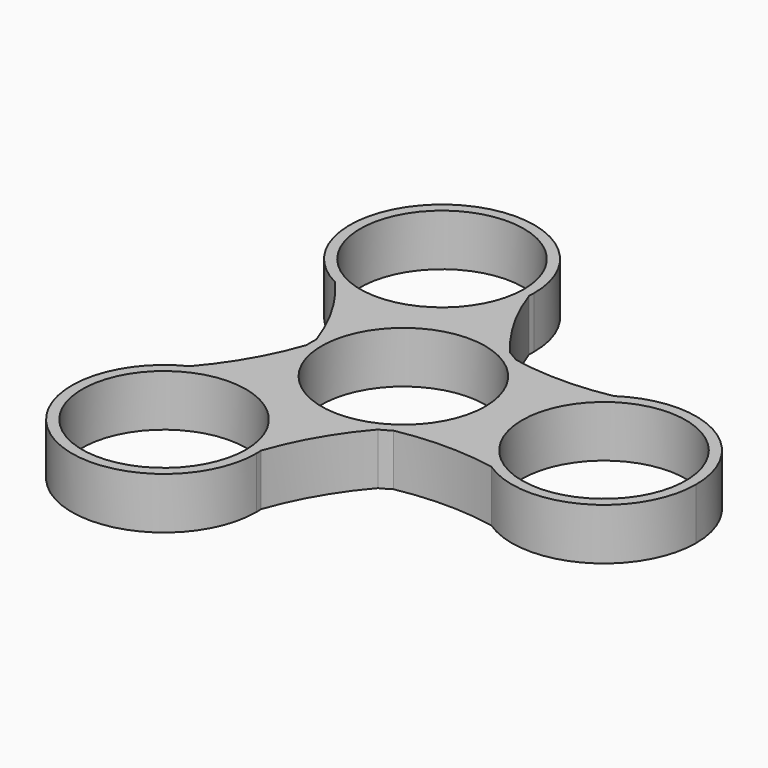
from build123d import *

# Parameters (mm, degrees)
F0_R     = 11.1
F1_DEPTH = 7


with BuildPart() as f1:
    # F0 (on Top) → F1 (new body)
    with BuildSketch(Plane.XY):
        with BuildLine():
            ThreePointArc((6.955402, -10.386163), (11.02707, -5.886742), (12.5, 0))
            ThreePointArc((12.5, 0), (11.02707, 5.886742), (6.955402, 10.386163))
            ThreePointArc((6.955402, 10.386163), (6.25, 10.825318), (5.51698, 11.216636))
            ThreePointArc((5.51698, 11.216636), (-6.25, 10.825318), (-12.472382, 0.830473))
            ThreePointArc((-12.472382, 0.830473), (-12.5, 0), (-12.472382, -0.830473))
            ThreePointArc((-12.472382, -0.830473), (-6.25, -10.825318), (5.51698, -11.216636))
            ThreePointArc((5.51698, -11.216636), (6.25, -10.825318), (6.955402, -10.386163))
        make_face()
        Circle(F0_R, mode=Mode.SUBTRACT)
        with BuildLine():
            ThreePointArc((6.955402, 10.386163), (11.02707, 5.886742), (12.5, 0))
            Line((12.5, 0), (14.7, 0))
            ThreePointArc((14.7, 0), (16.17293, 5.886742), (20.244598, 10.386163))
            ThreePointArc((20.244598, 10.386163), (13.6, 9.749651), (6.955402, 10.386163))
        make_face()
        with BuildLine():
            Line((14.7, 0), (12.5, 0))
            ThreePointArc((12.5, 0), (11.02707, -5.886742), (6.955402, -10.386163))
            ThreePointArc((6.955402, -10.386163), (13.6, -9.749651), (20.244598, -10.386163))
            ThreePointArc((20.244598, -10.386163), (16.17293, -5.886742), (14.7, 0))
        make_face()
        with BuildLine():
            ThreePointArc((38.3, 0), (27.2, 11.1), (16.1, 0))
            ThreePointArc((16.1, 0), (27.2, -11.1), (38.3, 0))
        make_face()
        with BuildLine():
            ThreePointArc((20.244598, 10.386163), (16.17293, 5.886742), (14.7, 0))
            ThreePointArc((14.7, 0), (16.17293, -5.886742), (20.244598, -10.386163))
            ThreePointArc((20.244598, -10.386163), (33.086742, -11.02707), (39.7, 0))
            ThreePointArc((39.7, 0), (33.086742, 11.02707), (20.244598, 10.386163))
        make_face()
        with BuildLine():
            ThreePointArc((38.3, 0), (27.2, -11.1), (16.1, 0))
            ThreePointArc((16.1, 0), (27.2, 11.1), (38.3, 0))
        make_face(mode=Mode.SUBTRACT)
        with BuildLine():
            ThreePointArc((-12.472382, 0.830473), (-6.25, 10.825318), (5.51698, 11.216636))
            ThreePointArc((5.51698, 11.216636), (1.643446, 16.652771), (-1.127618, 22.725418))
            ThreePointArc((-1.127618, 22.725418), (-7.35, 12.730573), (-19.11698, 12.339255))
            ThreePointArc((-19.11698, 12.339255), (-15.243446, 6.90312), (-12.472382, 0.830473))
        make_face()
        with BuildLine():
            ThreePointArc((-1.127618, -22.725418), (1.643446, -16.652771), (5.51698, -11.216636))
            ThreePointArc((5.51698, -11.216636), (-6.25, -10.825318), (-12.472382, -0.830473))
            ThreePointArc((-12.472382, -0.830473), (-15.243446, -6.90312), (-19.11698, -12.339255))
            ThreePointArc((-19.11698, -12.339255), (-7.35, -12.730573), (-1.127618, -22.725418))
        make_face()
        with BuildLine():
            ThreePointArc((-19.11698, 12.339255), (-7.35, 12.730573), (-1.127618, 22.725418))
            ThreePointArc((-1.127618, 22.725418), (-1.106906, 23.140425), (-1.1, 23.555891))
            ThreePointArc((-1.1, 23.555891), (-20.206351, 34.167494), (-19.11698, 12.339255))
        make_face()
        with Locations((-13.6, 23.555891)):
            Circle(F0_R, mode=Mode.SUBTRACT)
        with BuildLine():
            ThreePointArc((-1.1, -23.555891), (-1.106906, -23.140425), (-1.127618, -22.725418))
            ThreePointArc((-1.127618, -22.725418), (-7.35, -12.730573), (-19.11698, -12.339255))
            ThreePointArc((-19.11698, -12.339255), (-20.206351, -34.167494), (-1.1, -23.555891))
        make_face()
        with Locations((-13.6, -23.555891)):
            Circle(F0_R, mode=Mode.SUBTRACT)
    extrude(amount=F1_DEPTH)


solid = f1.part
